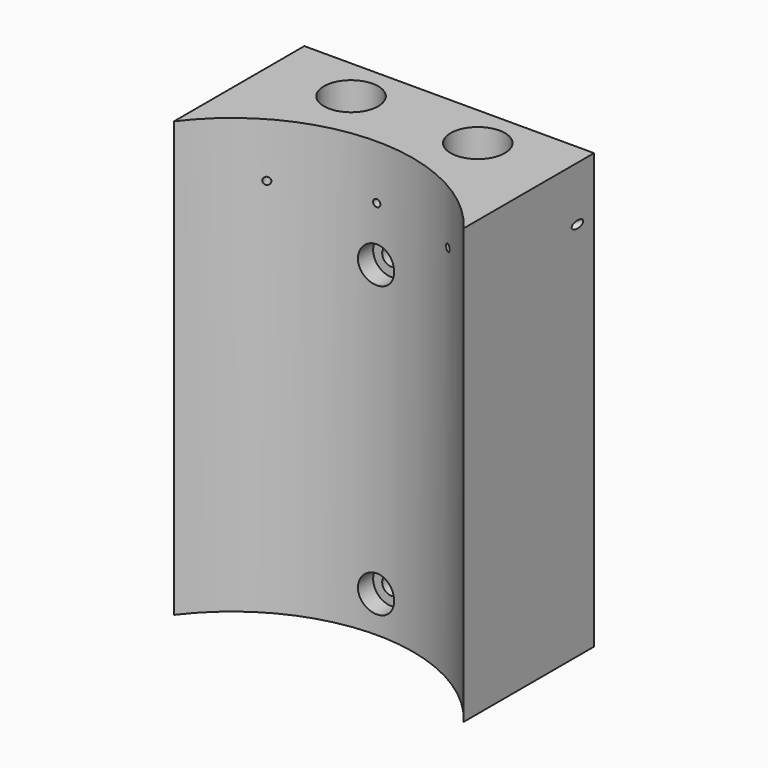
from build123d import *

# Parameters (mm, degrees)
F0_W      = 80
F0_H      = 120
F0_R      = 2.5
F0_R_2    = 1
F1_DEPTH  = 50
F3_DEPTH  = 120.001
F5_R      = 5
F6_DEPTH  = 10
F7_R      = 7.5
F8_DEPTH  = 120
F13_R     = 1
F15_DEPTH = 94.020238
F14_R     = 1
F16_DEPTH = 94.020238


with BuildPart() as f1:
    # F0 (on Front) → F1 (new body)
    with BuildSketch(Plane.XZ):
        Rectangle(F0_W, F0_H)
        with Locations((0, -50)):
            Circle(F0_R, mode=Mode.SUBTRACT)
        with Locations((0, 30)):
            Circle(F0_R, mode=Mode.SUBTRACT)
        with Locations((0, 45)):
            Circle(F0_R_2, mode=Mode.SUBTRACT)
    extrude(amount=F1_DEPTH)

    # F2 (on face) → F3 (cut, through all)
    with BuildSketch(Plane(origin=(0, 0, -60), x_dir=(1, 0, 0), z_dir=(0, 0, -1))):
        with BuildLine():
            Line((43.30127, 50), (-43.30127, 50))
            ThreePointArc((-43.30127, 50), (0, 25), (43.30127, 50))
        make_face()
    extrude(amount=-F3_DEPTH, mode=Mode.SUBTRACT)

    # F5 (on offset) → F6 (cut)
    with BuildSketch(Plane.XZ.offset(30)):
        with Locations((0, -50)):
            Circle(F5_R)
        with Locations((0, 30)):
            Circle(F5_R)
    extrude(amount=-F6_DEPTH, mode=Mode.SUBTRACT)

    # F7 (on face) → F8 (cut, through all)
    with BuildSketch(Plane(origin=(0, 0, -60), x_dir=(1, 0, 0), z_dir=(0, 0, -1))):
        with Locations((-17.5, 12)):
            Circle(F7_R)
        with Locations((17.5, 12)):
            Circle(F7_R)
    extrude(amount=-F8_DEPTH, mode=Mode.SUBTRACT)

    # F13 (on face) → F15 (cut, through all)
    with BuildSketch(Plane(origin=(17.524047, 30.35254, 0), x_dir=(-0.866025, 0.5, 0), z_dir=(0.5, 0.866025, 0))):
        with Locations((-37.5, 45)):
            Circle(F13_R)
    extrude(amount=-F15_DEPTH, mode=Mode.SUBTRACT)

    # F14 (on face) → F16 (cut, through all)
    with BuildSketch(Plane(origin=(-17.524047, 30.35254, 0), x_dir=(-0.866025, -0.5, 0), z_dir=(-0.5, 0.866025, 0))):
        with Locations((37.5, 45)):
            Circle(F14_R)
    extrude(amount=-F16_DEPTH, mode=Mode.SUBTRACT)


solid = f1.part
